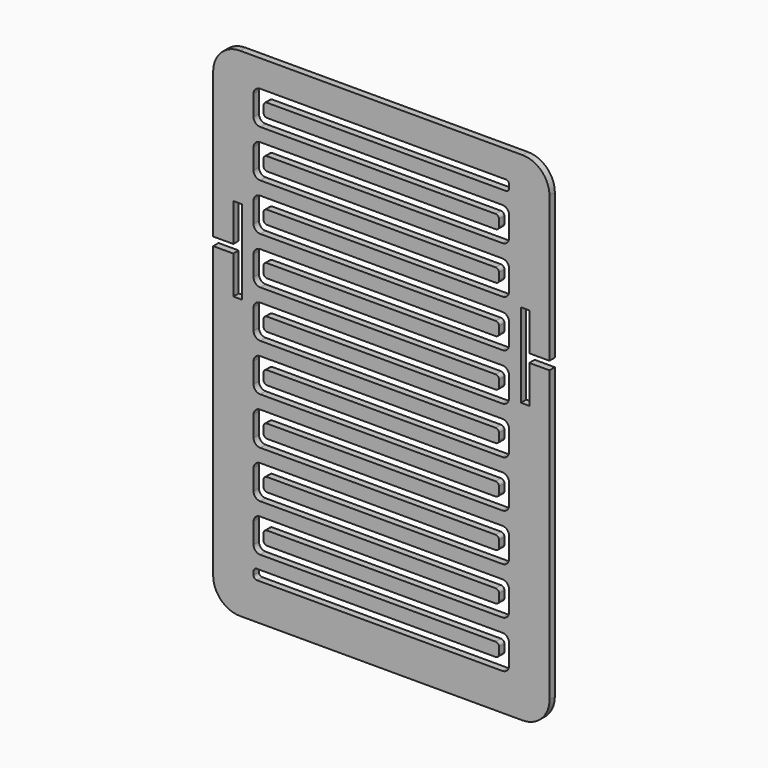
from build123d import *

# Parameters (mm, degrees)
F1_DEPTH = 6.35


with BuildPart() as f1:
    # F0 (on Front) → F1 (new body)
    with BuildSketch(Plane.XZ):
        with BuildLine():
            Line((-133.35, -234.95), (133.35, -234.95))
            ThreePointArc((133.35, -234.95), (151.310512, -227.510512), (158.75, -209.55))
            Line((158.75, -209.55), (158.75, 64.29375))
            Line((158.75, 64.29375), (139.7, 64.29375))
            Line((139.7, 64.29375), (139.7, 28.575))
            Line((139.7, 28.575), (131.7625, 28.575))
            Line((131.7625, 28.575), (131.7625, 107.95))
            Line((131.7625, 107.95), (139.7, 107.95))
            Line((139.7, 107.95), (139.7, 72.23125))
            Line((139.7, 72.23125), (158.75, 72.23125))
            Line((158.75, 72.23125), (158.75, 209.55))
            ThreePointArc((158.75, 209.55), (151.310512, 227.510512), (133.35, 234.95))
            Line((133.35, 234.95), (-133.35, 234.95))
            ThreePointArc((-133.35, 234.95), (-151.310512, 227.510512), (-158.75, 209.55))
            Line((-158.75, 209.55), (-158.75, 72.23125))
            Line((-158.75, 72.23125), (-139.7, 72.23125))
            Line((-139.7, 72.23125), (-139.7, 107.95))
            Line((-139.7, 107.95), (-131.7625, 107.95))
            Line((-131.7625, 107.95), (-131.7625, 28.575))
            Line((-131.7625, 28.575), (-139.7, 28.575))
            Line((-139.7, 28.575), (-139.7, 64.29375))
            Line((-139.7, 64.29375), (-158.75, 64.29375))
            Line((-158.75, 64.29375), (-158.75, -209.55))
            ThreePointArc((-158.75, -209.55), (-151.310512, -227.510512), (-133.35, -234.95))
        make_face()
        with BuildLine():
            ThreePointArc((-120.65, 203.2), (-118.790128, 207.690128), (-114.3, 209.55))
            Line((-114.3, 209.55), (117.475, 209.55))
            ThreePointArc((117.475, 209.55), (119.720064, 208.620064), (120.65, 206.375))
            Line((120.65, 206.375), (120.65, 203.2))
            ThreePointArc((120.65, 203.2), (119.720064, 200.954936), (117.475, 200.025))
            Line((117.475, 200.025), (-107.95, 200.025))
            ThreePointArc((-107.95, 200.025), (-110.195064, 199.095064), (-111.125, 196.85))
            Line((-111.125, 196.85), (-111.125, 190.5))
            ThreePointArc((-111.125, 190.5), (-110.195064, 188.254936), (-107.95, 187.325))
            Line((-107.95, 187.325), (114.3, 187.325))
            ThreePointArc((114.3, 187.325), (118.790128, 185.465128), (120.65, 180.975))
            Line((120.65, 180.975), (120.65, 161.925))
            ThreePointArc((120.65, 161.925), (118.790128, 157.434872), (114.3, 155.575))
            Line((114.3, 155.575), (-107.95, 155.575))
            ThreePointArc((-107.95, 155.575), (-110.195064, 154.645064), (-111.125, 152.4))
            Line((-111.125, 152.4), (-111.125, 146.05))
            ThreePointArc((-111.125, 146.05), (-110.195064, 143.804936), (-107.95, 142.875))
            Line((-107.95, 142.875), (114.3, 142.875))
            ThreePointArc((114.3, 142.875), (118.790128, 141.015128), (120.65, 136.525))
            Line((120.65, 136.525), (120.65, 117.475))
            ThreePointArc((120.65, 117.475), (118.790128, 112.984872), (114.3, 111.125))
            Line((114.3, 111.125), (-107.95, 111.125))
            ThreePointArc((-107.95, 111.125), (-110.195064, 110.195064), (-111.125, 107.95))
            Line((-111.125, 107.95), (-111.125, 101.6))
            ThreePointArc((-111.125, 101.6), (-110.195064, 99.354936), (-107.95, 98.425))
            Line((-107.95, 98.425), (114.3, 98.425))
            ThreePointArc((114.3, 98.425), (118.790128, 96.565128), (120.65, 92.075))
            Line((120.65, 92.075), (120.65, 73.025))
            ThreePointArc((120.65, 73.025), (118.790128, 68.534872), (114.3, 66.675))
            Line((114.3, 66.675), (-107.95, 66.675))
            ThreePointArc((-107.95, 66.675), (-110.195064, 65.745064), (-111.125, 63.5))
            Line((-111.125, 63.5), (-111.125, 57.15))
            ThreePointArc((-111.125, 57.15), (-110.195064, 54.904936), (-107.95, 53.975))
            Line((-107.95, 53.975), (114.3, 53.975))
            ThreePointArc((114.3, 53.975), (118.790128, 52.115128), (120.65, 47.625))
            Line((120.65, 47.625), (120.65, 28.575))
            ThreePointArc((120.65, 28.575), (118.790128, 24.084872), (114.3, 22.225))
            Line((114.3, 22.225), (-107.95, 22.225))
            ThreePointArc((-107.95, 22.225), (-110.195064, 21.295064), (-111.125, 19.05))
            Line((-111.125, 19.05), (-111.125, 12.7))
            ThreePointArc((-111.125, 12.7), (-110.195064, 10.454936), (-107.95, 9.525))
            Line((-107.95, 9.525), (114.3, 9.525))
            ThreePointArc((114.3, 9.525), (118.790128, 7.665128), (120.65, 3.175))
            Line((120.65, 3.175), (120.65, -15.875))
            ThreePointArc((120.65, -15.875), (118.790128, -20.365128), (114.3, -22.225))
            Line((114.3, -22.225), (-107.95, -22.225))
            ThreePointArc((-107.95, -22.225), (-110.195064, -23.154936), (-111.125, -25.4))
            Line((-111.125, -25.4), (-111.125, -31.75))
            ThreePointArc((-111.125, -31.75), (-110.195064, -33.995064), (-107.95, -34.925))
            Line((-107.95, -34.925), (114.3, -34.925))
            ThreePointArc((114.3, -34.925), (118.790128, -36.784872), (120.65, -41.275))
            Line((120.65, -41.275), (120.65, -60.325))
            ThreePointArc((120.65, -60.325), (118.790128, -64.815128), (114.3, -66.675))
            Line((114.3, -66.675), (-107.95, -66.675))
            ThreePointArc((-107.95, -66.675), (-110.195064, -67.604936), (-111.125, -69.85))
            Line((-111.125, -69.85), (-111.125, -76.2))
            ThreePointArc((-111.125, -76.2), (-110.195064, -78.445064), (-107.95, -79.375))
            Line((-107.95, -79.375), (114.3, -79.375))
            ThreePointArc((114.3, -79.375), (118.790128, -81.234872), (120.65, -85.725))
            Line((120.65, -85.725), (120.65, -104.775))
            ThreePointArc((120.65, -104.775), (118.790128, -109.265128), (114.3, -111.125))
            Line((114.3, -111.125), (-107.95, -111.125))
            ThreePointArc((-107.95, -111.125), (-110.195064, -112.054936), (-111.125, -114.3))
            Line((-111.125, -114.3), (-111.125, -120.65))
            ThreePointArc((-111.125, -120.65), (-110.195064, -122.895064), (-107.95, -123.825))
            Line((-107.95, -123.825), (114.3, -123.825))
            ThreePointArc((114.3, -123.825), (118.790128, -125.684872), (120.65, -130.175))
            Line((120.65, -130.175), (120.65, -149.225))
            ThreePointArc((120.65, -149.225), (118.790128, -153.715128), (114.3, -155.575))
            Line((114.3, -155.575), (-107.95, -155.575))
            ThreePointArc((-107.95, -155.575), (-110.195064, -156.504936), (-111.125, -158.75))
            Line((-111.125, -158.75), (-111.125, -165.1))
            ThreePointArc((-111.125, -165.1), (-110.195064, -167.345064), (-107.95, -168.275))
            Line((-107.95, -168.275), (114.3, -168.275))
            ThreePointArc((114.3, -168.275), (118.790128, -170.134872), (120.65, -174.625))
            Line((120.65, -174.625), (120.65, -193.675))
            ThreePointArc((120.65, -193.675), (118.790128, -198.165128), (114.3, -200.025))
            Line((114.3, -200.025), (-107.95, -200.025))
            Line((-107.95, -200.025), (-117.475, -200.025))
            ThreePointArc((-117.475, -200.025), (-119.720064, -199.095064), (-120.65, -196.85))
            Line((-120.65, -196.85), (-120.65, -193.675))
            ThreePointArc((-120.65, -193.675), (-119.720064, -191.429936), (-117.475, -190.5))
            Line((-117.475, -190.5), (-114.3, -190.5))
            Line((-114.3, -190.5), (107.95, -190.5))
            ThreePointArc((107.95, -190.5), (110.195064, -189.570064), (111.125, -187.325))
            Line((111.125, -187.325), (111.125, -180.975))
            ThreePointArc((111.125, -180.975), (110.195064, -178.729936), (107.95, -177.8))
            Line((107.95, -177.8), (-114.3, -177.8))
            ThreePointArc((-114.3, -177.8), (-118.790128, -175.940128), (-120.65, -171.45))
            Line((-120.65, -171.45), (-120.65, -152.4))
            ThreePointArc((-120.65, -152.4), (-118.790128, -147.909872), (-114.3, -146.05))
            Line((-114.3, -146.05), (107.95, -146.05))
            ThreePointArc((107.95, -146.05), (110.195064, -145.120064), (111.125, -142.875))
            Line((111.125, -142.875), (111.125, -136.525))
            ThreePointArc((111.125, -136.525), (110.195064, -134.279936), (107.95, -133.35))
            Line((107.95, -133.35), (-114.3, -133.35))
            ThreePointArc((-114.3, -133.35), (-118.790128, -131.490128), (-120.65, -127))
            Line((-120.65, -127), (-120.65, -107.95))
            ThreePointArc((-120.65, -107.95), (-118.790128, -103.459872), (-114.3, -101.6))
            Line((-114.3, -101.6), (107.95, -101.6))
            ThreePointArc((107.95, -101.6), (110.195064, -100.670064), (111.125, -98.425))
            Line((111.125, -98.425), (111.125, -92.075))
            ThreePointArc((111.125, -92.075), (110.195064, -89.829936), (107.95, -88.9))
            Line((107.95, -88.9), (-114.3, -88.9))
            ThreePointArc((-114.3, -88.9), (-118.790128, -87.040128), (-120.65, -82.55))
            Line((-120.65, -82.55), (-120.65, -63.5))
            ThreePointArc((-120.65, -63.5), (-118.790128, -59.009872), (-114.3, -57.15))
            Line((-114.3, -57.15), (107.95, -57.15))
            ThreePointArc((107.95, -57.15), (110.195064, -56.220064), (111.125, -53.975))
            Line((111.125, -53.975), (111.125, -47.625))
            ThreePointArc((111.125, -47.625), (110.195064, -45.379936), (107.95, -44.45))
            Line((107.95, -44.45), (-114.3, -44.45))
            ThreePointArc((-114.3, -44.45), (-118.790128, -42.590128), (-120.65, -38.1))
            Line((-120.65, -38.1), (-120.65, -19.05))
            ThreePointArc((-120.65, -19.05), (-118.790128, -14.559872), (-114.3, -12.7))
            Line((-114.3, -12.7), (107.95, -12.7))
            ThreePointArc((107.95, -12.7), (110.195064, -11.770064), (111.125, -9.525))
            Line((111.125, -9.525), (111.125, -3.175))
            ThreePointArc((111.125, -3.175), (110.195064, -0.929936), (107.95, 0))
            Line((107.95, 0), (-114.3, 0))
            ThreePointArc((-114.3, 0), (-118.790128, 1.859872), (-120.65, 6.35))
            Line((-120.65, 6.35), (-120.65, 25.4))
            ThreePointArc((-120.65, 25.4), (-118.790128, 29.890128), (-114.3, 31.75))
            Line((-114.3, 31.75), (107.95, 31.75))
            ThreePointArc((107.95, 31.75), (110.195064, 32.679936), (111.125, 34.925))
            Line((111.125, 34.925), (111.125, 41.275))
            ThreePointArc((111.125, 41.275), (110.195064, 43.520064), (107.95, 44.45))
            Line((107.95, 44.45), (-114.3, 44.45))
            ThreePointArc((-114.3, 44.45), (-118.790128, 46.309872), (-120.65, 50.8))
            Line((-120.65, 50.8), (-120.65, 69.85))
            ThreePointArc((-120.65, 69.85), (-118.790128, 74.340128), (-114.3, 76.2))
            Line((-114.3, 76.2), (107.95, 76.2))
            ThreePointArc((107.95, 76.2), (110.195064, 77.129936), (111.125, 79.375))
            Line((111.125, 79.375), (111.125, 85.725))
            ThreePointArc((111.125, 85.725), (110.195064, 87.970064), (107.95, 88.9))
            Line((107.95, 88.9), (-114.3, 88.9))
            ThreePointArc((-114.3, 88.9), (-118.790128, 90.759872), (-120.65, 95.25))
            Line((-120.65, 95.25), (-120.65, 114.3))
            ThreePointArc((-120.65, 114.3), (-118.790128, 118.790128), (-114.3, 120.65))
            Line((-114.3, 120.65), (107.95, 120.65))
            ThreePointArc((107.95, 120.65), (110.195064, 121.579936), (111.125, 123.825))
            Line((111.125, 123.825), (111.125, 130.175))
            ThreePointArc((111.125, 130.175), (110.195064, 132.420064), (107.95, 133.35))
            Line((107.95, 133.35), (-114.3, 133.35))
            ThreePointArc((-114.3, 133.35), (-118.790128, 135.209872), (-120.65, 139.7))
            Line((-120.65, 139.7), (-120.65, 158.75))
            ThreePointArc((-120.65, 158.75), (-118.790128, 163.240128), (-114.3, 165.1))
            Line((-114.3, 165.1), (107.95, 165.1))
            ThreePointArc((107.95, 165.1), (110.195064, 166.029936), (111.125, 168.275))
            Line((111.125, 168.275), (111.125, 174.625))
            ThreePointArc((111.125, 174.625), (110.195064, 176.870064), (107.95, 177.8))
            Line((107.95, 177.8), (-114.3, 177.8))
            ThreePointArc((-114.3, 177.8), (-118.790128, 179.659872), (-120.65, 184.15))
            Line((-120.65, 184.15), (-120.65, 203.2))
        make_face(mode=Mode.SUBTRACT)
    extrude(amount=F1_DEPTH)


solid = f1.part
